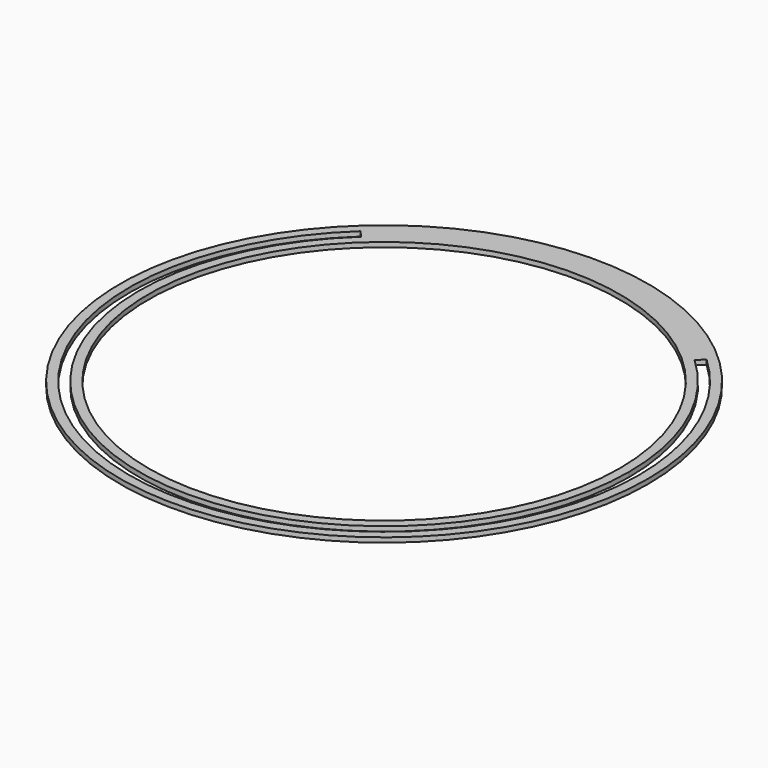
from build123d import *

# Parameters (mm, degrees)
F0_R     = 84
F0_R_2   = 75
F1_DEPTH = 1.5


with BuildPart() as f1:
    # F0 (on Top) → F1 (new body)
    with BuildSketch(Plane.XY):
        Circle(F0_R)
        with BuildLine():
            ThreePointArc((55.269365, 59.213996), (74.289362, 32.28143), (81, 0))
            ThreePointArc((81, 0), (-32.405523, -74.235316), (-55.071163, 59.398376))
            ThreePointArc((-55.071163, 59.398376), (0.135352, 80.999887), (55.269365, 59.213996))
        make_face(mode=Mode.SUBTRACT)
        with BuildLine():
            Line((53.08927, 57.144811), (55.269365, 59.213996))
            ThreePointArc((55.269365, 59.213996), (0.135352, 80.999887), (-55.071163, 59.398376))
            Line((-55.071163, 59.398376), (-53.03149, 57.198436))
            ThreePointArc((-53.03149, 57.198436), (0.039415, 77.99999), (53.08927, 57.144811))
        make_face()
        with BuildLine():
            ThreePointArc((78, 0), (71.501619, 31.169191), (53.08927, 57.144811))
            ThreePointArc((53.08927, 57.144811), (0.039415, 77.99999), (-53.03149, 57.198436))
            ThreePointArc((-53.03149, 57.198436), (-31.205318, -71.48586), (78, 0))
        make_face()
        Circle(F0_R_2, mode=Mode.SUBTRACT)
    extrude(amount=F1_DEPTH)


solid = f1.part
